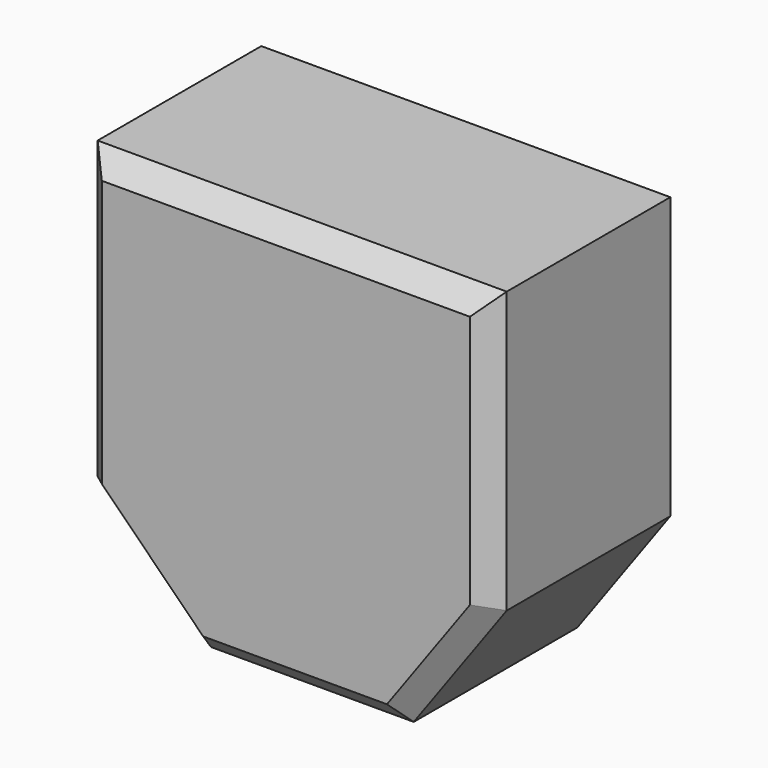
from build123d import *

# Parameters (mm, degrees)
F1_DEPTH = 60
F2_SIZE  = 5
F3_R     = 25
F4_DEPTH = 25
F5_DEPTH = 25
F6_DEPTH = 37.9
F7_SIZE  = 5


with BuildPart() as f1:
    # F0 (on Front) → F1 (new body)
    with BuildSketch(Plane.XZ):
        Polygon((41.7999535799, 43.9688995481), (-58.2000464201, 43.9688995481), (-58.2000464201, -28.3167899087), (-30.4857346934, -56.0311004519), (19.0735861891, -56.0311004519), (41.7999535799, -24.6786684919), align=None)
    extrude(amount=F1_DEPTH)

    # F2
    f2_edges = [f1.edges().sort_by_distance(p)[0] for p in [
        (41.799954, -60, 9.645116),
        (-8.200046, -60, 43.9689),
        (-58.200046, -60, 7.826055),
        (-44.342891, -60, -42.173945),
        (-5.706074, -60, -56.0311),
        (30.43677, -60, -40.354884),
    ]]
    chamfer(f2_edges, length=F2_SIZE)

    # F3 (on Front) → F4 (cut)
    with BuildSketch(Plane.XZ):
        with Locations((-10.7513342236, 0)):
            Circle(F3_R)
    extrude(amount=-F4_DEPTH, mode=Mode.SUBTRACT)

    # F3 (on Front) → F5 (cut)
    with BuildSketch(Plane.XZ):
        with Locations((-10.7513342236, 0)):
            Circle(F3_R)
    extrude(amount=-F5_DEPTH, mode=Mode.SUBTRACT)

    # F3 (on Front) → F6 (cut)
    with BuildSketch(Plane.XZ):
        with Locations((-10.7513342236, 0)):
            Circle(F3_R)
    extrude(amount=F6_DEPTH, mode=Mode.SUBTRACT)

    # F7
    f7_edges = [f1.edges().sort_by_distance(p)[0] for p in [
        (41.799954, 0, 9.645116),
        (30.43677, 0, -40.354884),
        (-8.200046, 0, 43.9689),
        (-5.706074, 0, -56.0311),
        (-58.200046, 0, 7.826055),
        (-44.342891, 0, -42.173945),
        (-35.751334, 0, 0),
    ]]
    chamfer(f7_edges, length=F7_SIZE)


solid = f1.part
